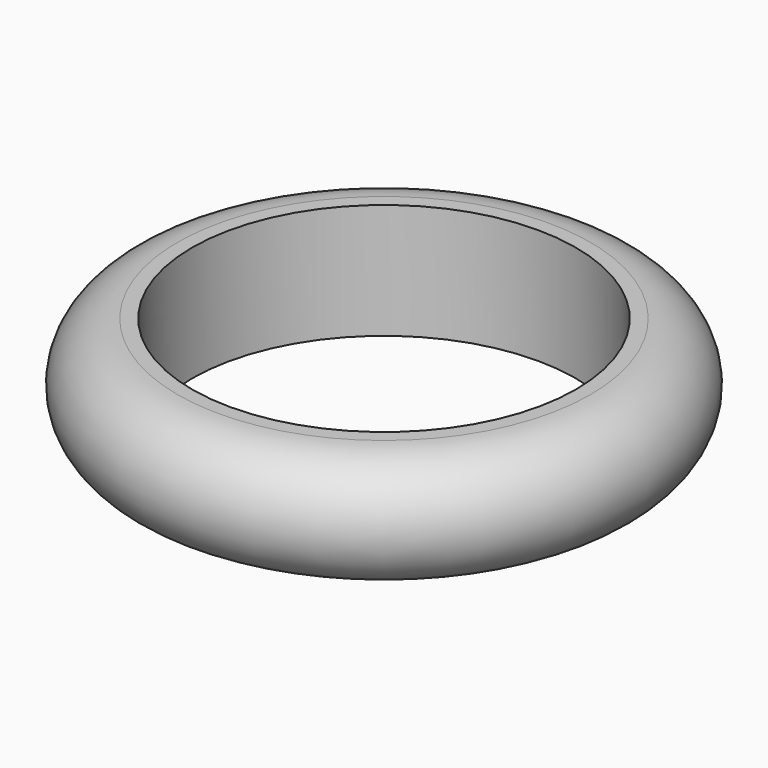
from build123d import *


with BuildPart() as f2:
    # F2: sweep along a path in F0
    with BuildLine(Plane.XY) as f2_path:
        CenterArc((0, 0), 40, 0, 360)
    # F1 (on Front) → F2 (sweep)
    with BuildSketch(Plane.XZ):
        with BuildLine():
            Line((-40, 12), (-43, 12))
            ThreePointArc((-43, 12), (-55, 0), (-43, -12))
            Line((-43, -12), (-40, -12))
            Line((-40, -12), (-40, 12))
        make_face()
    sweep(path=f2_path.line)


solid = f2.part
